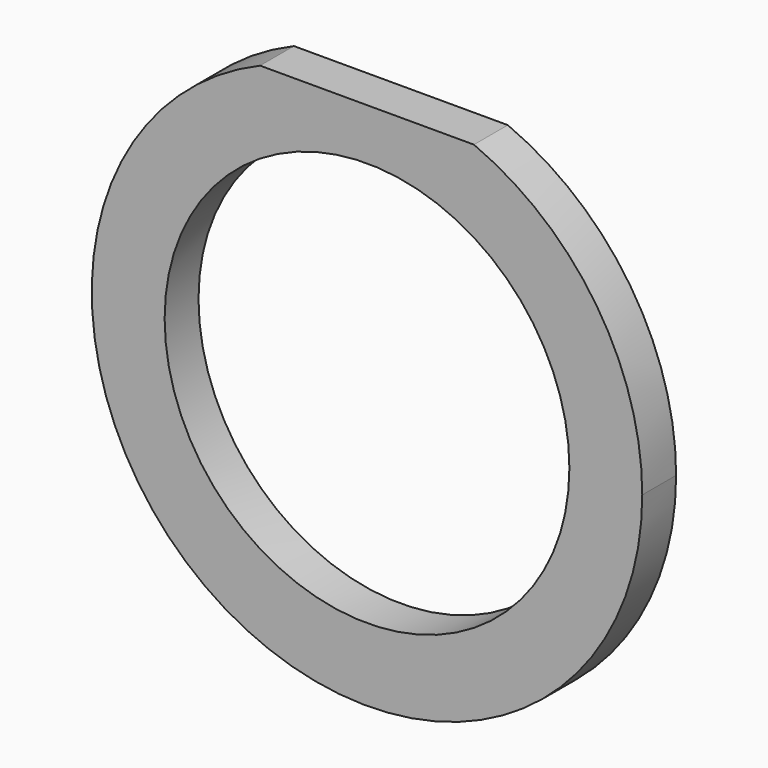
from build123d import *

# Parameters (mm, degrees)
F0_R     = 24.278678
F1_DEPTH = 5.08


with BuildPart() as f1:
    # F0 (on Front) → F1 (new body)
    with BuildSketch(Plane.XZ):
        with BuildLine():
            ThreePointArc((-12.827, 30.426772), (-18.258873, -27.512433), (33.02, 0))
            ThreePointArc((33.02, 0), (27.512433, 18.258873), (12.827, 30.426772))
            Line((12.827, 30.426772), (-12.827, 30.426772))
        make_face()
        Circle(F0_R, mode=Mode.SUBTRACT)
    extrude(amount=F1_DEPTH)


solid = f1.part
